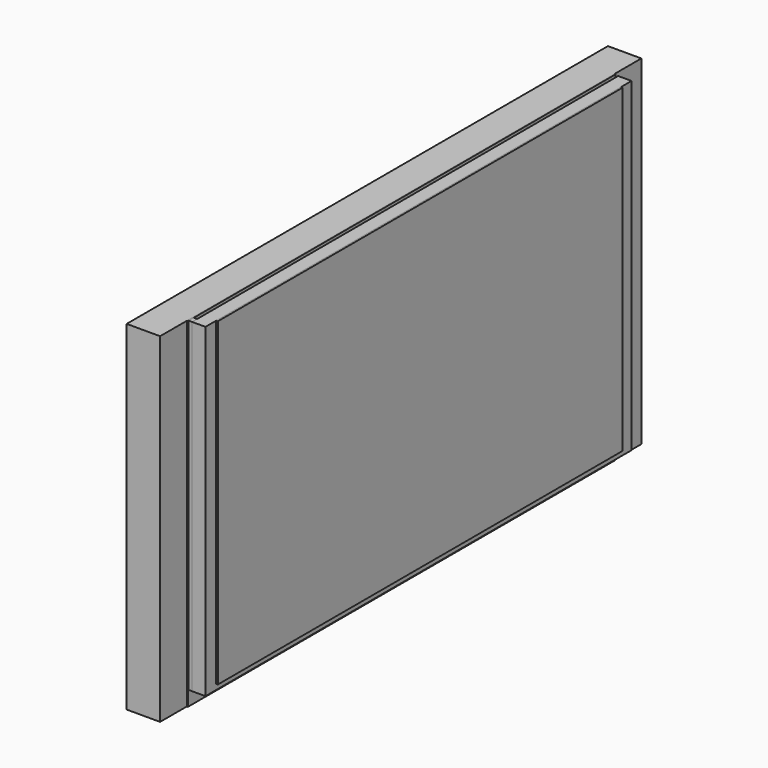
from build123d import *

# Parameters (mm, degrees)
F0_W     = 250
F0_H     = 4500
F1_DEPTH = 2540
F2_W     = 4000
F2_H     = 2540
F3_DEPTH = 8
F4_W     = 47
F4_H     = 2432
F5_DEPTH = 25
F6_W     = 47
F6_H     = 2432
F6_W_2   = 3937
F7_DEPTH = 100
F8_W     = 3784
F8_H     = 2392
F9_DEPTH = 12.5


with BuildPart() as f1:
    # F0 (on Top) → F1 (new body)
    with BuildSketch(Plane.XY):
        with Locations((106.335197, 2194.162607)):
            Rectangle(F0_W, F0_H)
    extrude(amount=F1_DEPTH)


with BuildPart() as f3:
    # F2 (on face) → F3 (new body)
    with BuildSketch(Plane.YZ.offset(231.335197)):
        with Locations((2194.162607, 1270)):
            Rectangle(F2_W, F2_H)
    extrude(amount=F3_DEPTH)


with BuildPart() as f5:
    # F4 (on face) → F5 (new body)
    with BuildSketch(Plane.YZ.offset(239.335197)):
        with Locations((225.662607, 1324)):
            Rectangle(F4_W, F4_H)
    extrude(amount=F5_DEPTH)


with BuildPart() as f7:
    # F6 (on face) → F7 (new body)
    with BuildSketch(Plane.YZ.offset(264.335197)):
        with Locations((225.662607, 1324)):
            Rectangle(F6_W, F6_H)
        with Locations((2217.662607, 1324)):
            Rectangle(F6_W_2, F6_H)
    extrude(amount=F7_DEPTH)


with BuildPart() as f9:
    # F8 (on face) → F9 (new body)
    with BuildSketch(Plane.YZ.offset(364.335197)):
        with Locations((2194.162607, 1344)):
            Rectangle(F8_W, F8_H)
    extrude(amount=F9_DEPTH)


solid = Compound([f1.part, f3.part, f5.part, f7.part, f9.part])
